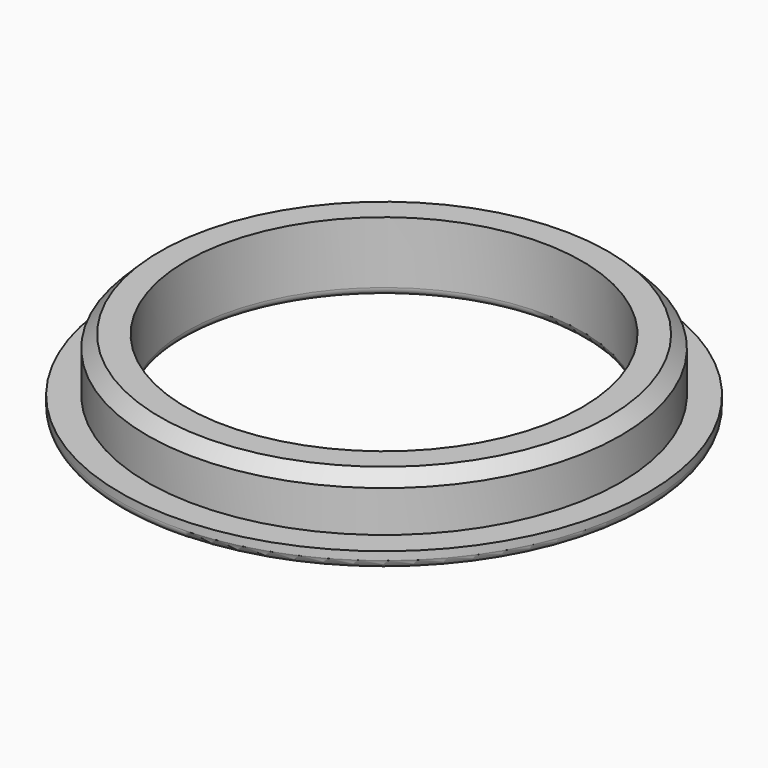
from build123d import *

# Parameters (mm, degrees)
F0_R     = 32
F3_DEPTH = 2
F1_R     = 28.675
F4_DEPTH = 6.5
F2_R     = 24
F5_DEPTH = 10
F6_SIZE  = 1.5
F7_R     = 1


with BuildPart() as f3:
    # F0 (on Top) → F3 (new body)
    with BuildSketch(Plane.XY):
        Circle(F0_R)
    extrude(amount=-F3_DEPTH)

    # F1 (on Top) → F4 (join)
    with BuildSketch(Plane.XY):
        Circle(F1_R)
    extrude(amount=F4_DEPTH)

    # F2 (on Top) → F5 (cut, symmetric)
    with BuildSketch(Plane.XY):
        Circle(F2_R)
    extrude(amount=F5_DEPTH, both=True, mode=Mode.SUBTRACT)

    # F6
    f6_edges = [f3.edges().sort_by_distance(p)[0] for p in [
        (-28.675, 0, 6.5),
    ]]
    chamfer(f6_edges, length=F6_SIZE)

    # F7
    f7_edges = [f3.edges().sort_by_distance(p)[0] for p in [
        (-24, 0, -2),
        (-32, 0, -2),
    ]]
    fillet(f7_edges, radius=F7_R)


solid = f3.part
